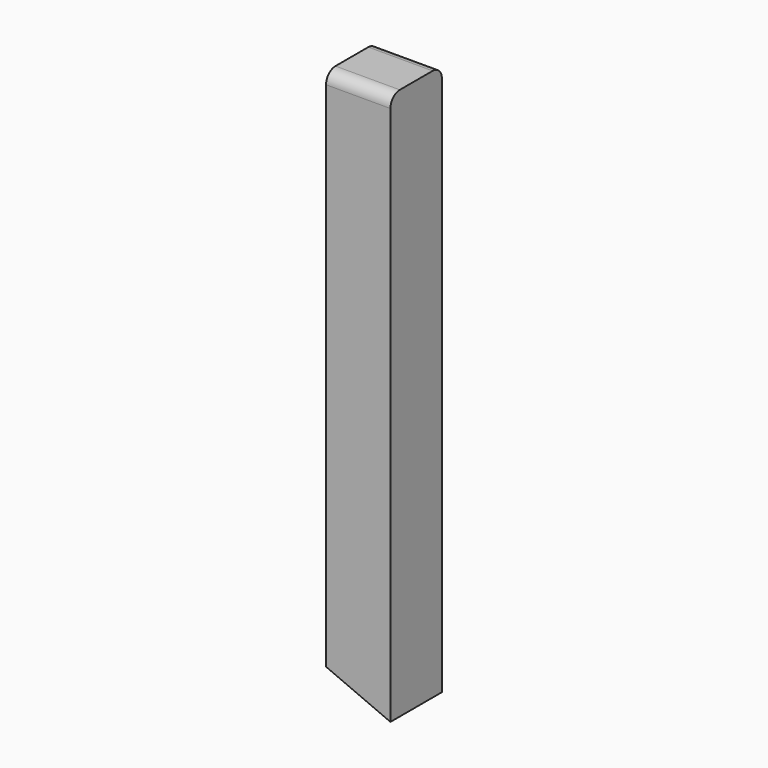
from build123d import *

# Parameters (mm, degrees)
F0_W     = 70
F0_H     = 600
F1_DEPTH = 35
F2_R     = 12.7
F4_DEPTH = 72.39


with BuildPart() as f1:
    # F0 (on Front) → F1 (new body, symmetric)
    with BuildSketch(Plane.XZ):
        Rectangle(F0_W, F0_H)
    extrude(amount=F1_DEPTH, both=True)

    # F2
    f2_edges = [f1.edges().sort_by_distance(p)[0] for p in [
        (0, -35, 300),
        (0, 35, 300),
    ]]
    fillet(f2_edges, radius=F2_R)

    # F3 (on face) → F4 (cut, symmetric)
    with BuildSketch(Plane.XZ.offset(35)):
        Polygon((35, -300), (-35, -270), (-35, -300), align=None)
    extrude(amount=F4_DEPTH, both=True, mode=Mode.SUBTRACT)


solid = f1.part
